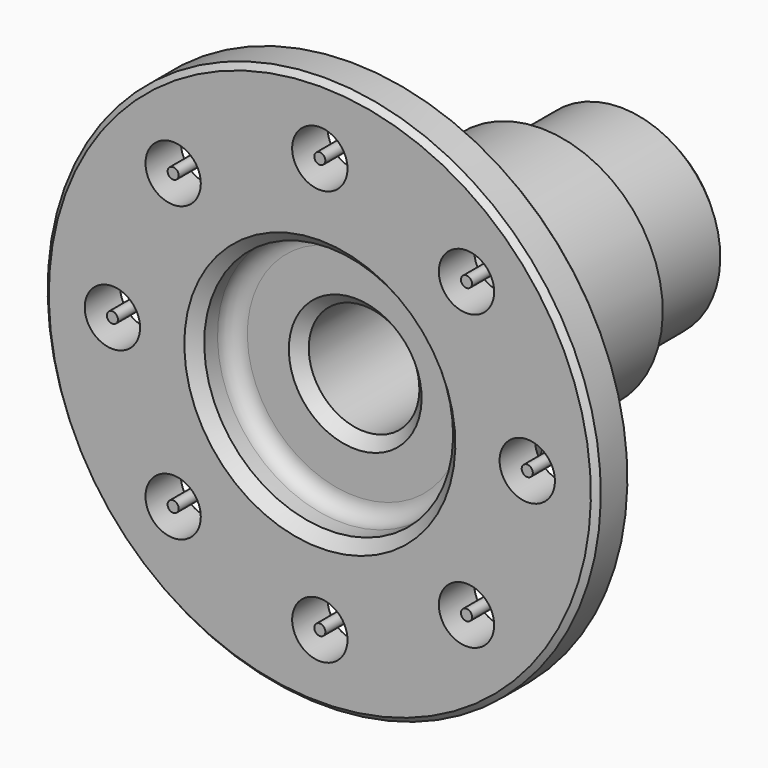
from build123d import *

# Parameters (mm, degrees)
F2_R     = 5
F3_DEPTH = 70.001
F4_SIZE  = 2
F5_R     = 3
F6_SIZE  = 1
F7_R     = 1
F8_DEPTH = 8


with BuildPart() as f1:
    # F0 (on Right) → F1 (revolve)
    with BuildSketch(Plane.YZ):
        Polygon((0, 50), (0, 22.5), (8, 22.5), (8, 10), (70, 10), (70, 18), (50, 18), (50, 22), (18, 22), (18, 27), (8, 27), (8, 50), align=None)
    revolve(axis=Axis((0, -13.281931, 0), (0, -1, 0)))

    # F2 (on face) → F3 (cut, through all)
    with BuildSketch(Plane.XZ):
        with Locations((0, -37.5)):
            Circle(F2_R)
        with Locations((26.516504, -26.516504)):
            Circle(F2_R)
        with Locations((37.5, 0)):
            Circle(F2_R)
        with Locations((26.516504, 26.516504)):
            Circle(F2_R)
        with Locations((0, 37.5)):
            Circle(F2_R)
        with Locations((-26.516504, 26.516504)):
            Circle(F2_R)
        with Locations((-37.5, 0)):
            Circle(F2_R)
        with Locations((-26.516504, -26.516504)):
            Circle(F2_R)
    extrude(amount=-F3_DEPTH, mode=Mode.SUBTRACT)

    # F4
    f4_edges = [f1.edges().sort_by_distance(p)[0] for p in [
        (0, 0, -22.5),
        (0, 8, -10),
        (0, 70, -18),
    ]]
    chamfer(f4_edges, length=F4_SIZE)

    # F5
    f5_edges = [f1.edges().sort_by_distance(p)[0] for p in [
        (0, 8, -22.5),
        (0, 50, -18),
        (0, 18, -22),
    ]]
    fillet(f5_edges, radius=F5_R)

    # F6
    f6_edges = [f1.edges().sort_by_distance(p)[0] for p in [
        (0, 0, -50),
        (0, 8, -50),
    ]]
    chamfer(f6_edges, length=F6_SIZE)


with BuildPart() as f8:
    # F7 (on face) → F8 (new body)
    with BuildSketch(Plane.XZ):
        with Locations((0, 37.5)):
            Circle(F7_R)
        with Locations((-26.516504, 26.516504)):
            Circle(F7_R)
        with Locations((-37.5, 0)):
            Circle(F7_R)
        with Locations((-26.516504, -26.516504)):
            Circle(F7_R)
        with Locations((0, -37.5)):
            Circle(F7_R)
        with Locations((26.516504, -26.516504)):
            Circle(F7_R)
        with Locations((37.5, 0)):
            Circle(F7_R)
        with Locations((26.516504, 26.516504)):
            Circle(F7_R)
    extrude(amount=-F8_DEPTH)


solid = Compound([f1.part, f8.part])
